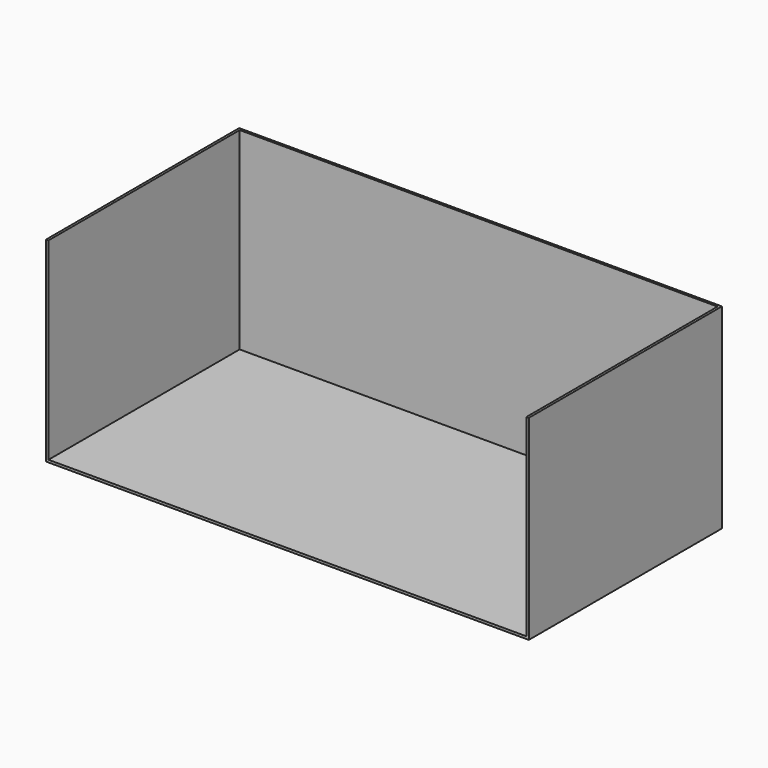
from build123d import *

# Parameters (mm, degrees)
F0_W     = 508
F0_H     = 254
F1_DEPTH = 2.54
F2_W     = 2.54
F2_H     = 254
F3_DEPTH = 203.2
F5_DEPTH = 203.2
F6_W     = 2.54
F6_H     = 251.46
F7_DEPTH = 203.2


with BuildPart() as f1:
    # F0 (on Top) → F1 (new body)
    with BuildSketch(Plane.XY):
        Rectangle(F0_W, F0_H)
    extrude(amount=F1_DEPTH)

    # F2 (on face) → F3 (join)
    with BuildSketch(Plane.XY.offset(2.54)):
        with Locations((-252.73, 0)):
            Rectangle(F2_W, F2_H)
    extrude(amount=F3_DEPTH)

    # F4 (on face) → F5 (join)
    with BuildSketch(Plane.XY.offset(2.54)):
        Polygon((254, 124.46), (254, 127), (-49.611485, 127), (-251.46, 127), (-251.46, 124.46), align=None)
    extrude(amount=F5_DEPTH)

    # F6 (on face) → F7 (join)
    with BuildSketch(Plane.XY.offset(2.54)):
        with Locations((252.73, -1.27)):
            Rectangle(F6_W, F6_H)
    extrude(amount=F7_DEPTH)


solid = f1.part
